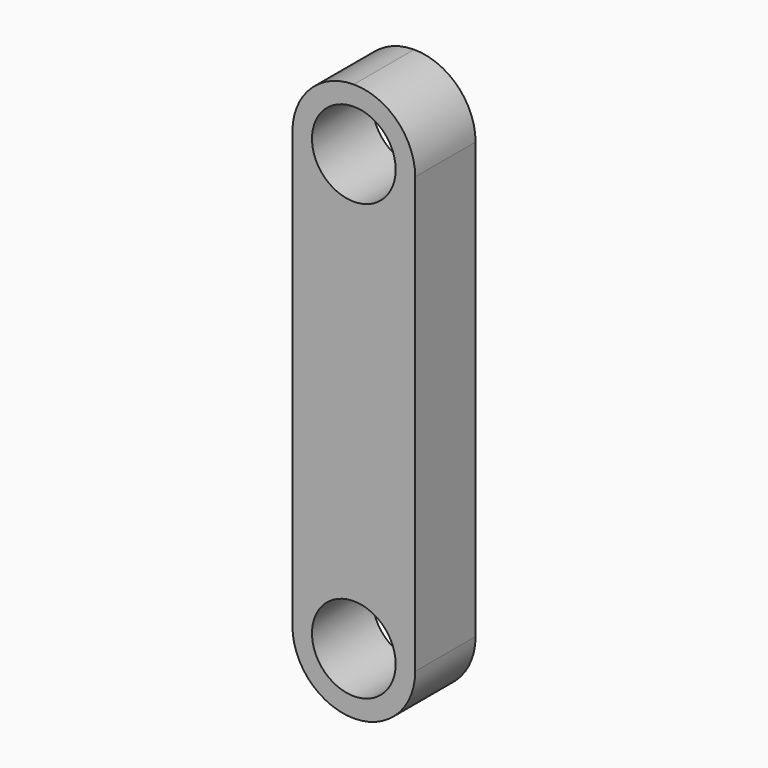
from build123d import *

# Parameters (mm, degrees)
F1_DEPTH = 67.6
F2_R     = 37.5
F3_DEPTH = 67.6


with BuildPart() as f1:
    # F0 (on Front) → F1 (new body)
    with BuildSketch(Plane.XZ):
        with BuildLine():
            Line((55, -195), (55, 195))
            ThreePointArc((55, 195), (38.890873, 233.890873), (0, 250))
            ThreePointArc((0, 250), (-38.890873, 233.890873), (-55, 195))
            Line((-55, 195), (-55, -195))
            ThreePointArc((-55, -195), (-38.890873, -233.890873), (0, -250))
            ThreePointArc((0, -250), (38.890873, -233.890873), (55, -195))
        make_face()
    extrude(amount=F1_DEPTH)

    # F2 (on face) → F3 (cut, through all)
    with BuildSketch(Plane.XZ.offset(67.6)):
        with Locations((0, 195)):
            Circle(F2_R)
        with Locations((0, -195)):
            Circle(F2_R)
    extrude(amount=-F3_DEPTH, mode=Mode.SUBTRACT)


solid = f1.part
